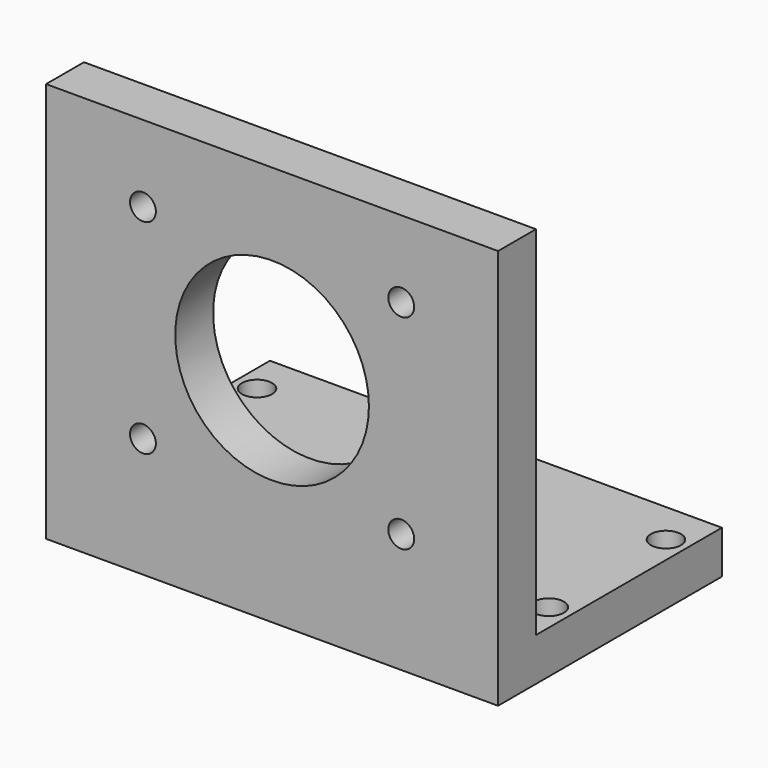
from build123d import *

# Parameters (mm, degrees)
F0_W     = 53.34
F0_H     = 5.588
F0_H_2   = 27.432
F0_R     = 1.778
F1_DEPTH = 5.08
F2_DEPTH = 42.164
F3_R     = 1.524
F3_R_2   = 11.43
F4_DEPTH = 25.4


with BuildPart() as f1:
    # F0 (on Top) → F1 (new body)
    with BuildSketch(Plane.XY):
        with Locations((26.67, 2.794)):
            Rectangle(F0_W, F0_H)
        with Locations((26.67, 19.304)):
            Rectangle(F0_W, F0_H_2)
        with Locations((2.54, 10.668)):
            Circle(F0_R, mode=Mode.SUBTRACT)
        with Locations((50.8, 10.668)):
            Circle(F0_R, mode=Mode.SUBTRACT)
        with Locations((2.54, 27.94)):
            Circle(F0_R, mode=Mode.SUBTRACT)
        with Locations((50.8, 27.94)):
            Circle(F0_R, mode=Mode.SUBTRACT)
    extrude(amount=-F1_DEPTH)

    # F0 (on Top) → F2 (join)
    with BuildSketch(Plane.XY):
        with Locations((26.67, 2.794)):
            Rectangle(F0_W, F0_H)
    extrude(amount=F2_DEPTH)

    # F3 (on face) → F4 (cut)
    with BuildSketch(Plane.XZ):
        with Locations((11.43, 33.128857)):
            Circle(F3_R)
        with Locations((41.91, 33.128857)):
            Circle(F3_R)
        with Locations((11.43, 9.035143)):
            Circle(F3_R)
        with Locations((41.91, 9.035143)):
            Circle(F3_R)
        with Locations((26.67, 21.082)):
            Circle(F3_R_2)
    extrude(amount=-F4_DEPTH, mode=Mode.SUBTRACT)


solid = f1.part
